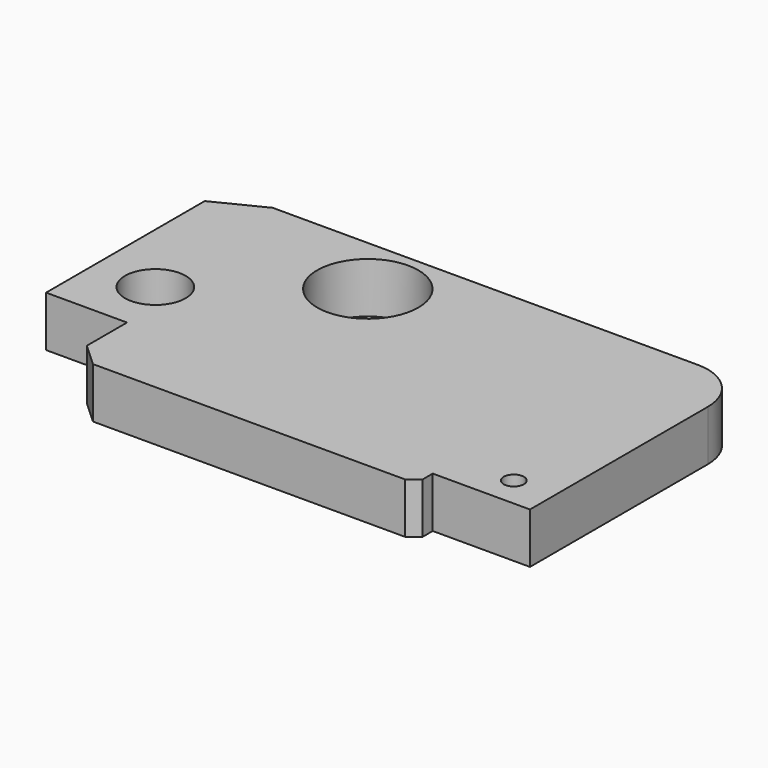
from build123d import *

# Parameters (mm, degrees)
F0_R     = 15
F0_R_2   = 5
F0_R_3   = 25
F1_DEPTH = 25


with BuildPart() as f1:
    # F0 (on Top) → F1 (new body)
    with BuildSketch(Plane.XY):
        with BuildLine():
            Line((-12.911976, 47.334044), (-83.911976, 47.334044))
            Line((-83.911976, 47.334044), (-107.911976, 35.334044))
            Line((-107.911976, 35.334044), (-107.911976, -32.665956))
            Line((-107.911976, -32.665956), (-107.911976, -62.665956))
            Line((-107.911976, -62.665956), (-67.911976, -62.665956))
            Line((-67.911976, -62.665956), (-67.911976, -87.529481))
            Line((-67.911976, -87.529481), (-56.483408, -98.005669))
            Line((-56.483408, -98.005669), (97.802283, -98.005669))
            Line((97.802283, -98.005669), (103.081547, -93.901902))
            Line((103.081547, -93.901902), (103.081547, -87.529481))
            Line((103.081547, -87.529481), (151.135609, -87.529481))
            Line((151.135609, -87.529481), (151.135609, 22.334044))
            ThreePointArc((151.135609, 22.334044), (143.813279, 40.011713), (126.135609, 47.334044))
            Line((126.135609, 47.334044), (71.326105, 47.334044))
            Line((71.326105, 47.334044), (-12.911976, 47.334044))
        make_face()
        with Locations((-77.911976, -32.665956)):
            Circle(F0_R, mode=Mode.SUBTRACT)
        with Locations((131.135609, -72.529481)):
            Circle(F0_R_2, mode=Mode.SUBTRACT)
        with Locations((-12.911976, 17.334044)):
            Circle(F0_R_3, mode=Mode.SUBTRACT)
    extrude(amount=F1_DEPTH)


solid = f1.part
